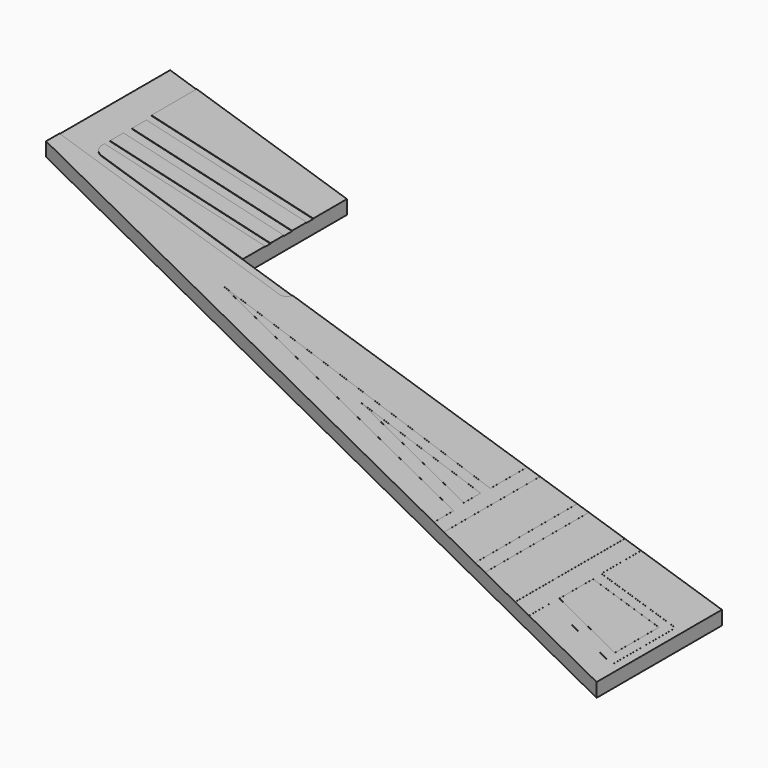
from build123d import *

# Parameters (mm, degrees)
PAD004_DEPTH    = 0.3
POCKET012_DEPTH = 0.01
POCKET013_DEPTH = 0.01


with BuildPart() as part:
    # Sketch014 (on Face1 of Binder004) → Pad004 (new body)
    with BuildSketch(Plane.XY.offset(10.4)):
        Polygon((-19.4323216564, 66.2270001367), (-19.4323216564, 62.889181066), (0.0923997574, 53.2967653506), (0.0923997574, 56.6681716802), (-14.1681248714, 61.6047050946), (-14.1681248714, 64.4047050946), align=None)
    extrude(amount=PAD004_DEPTH)

    # Sketch015 (on Face8 of Pad004) → Pocket012 (cut)
    with BuildSketch(Plane.XY.offset(10.7)):
        Polygon((-5.32199, 58.5424586824), (-5.32199, 55.9568328772), (-5.679085, 56.1322721891), (-5.679085, 56.662136), (-13.809804, 60.630539), (-5.70539, 57.684792), (-5.70539, 58.6751793894), align=None)
        with BuildLine():
            ThreePointArc((-5.7045356509, 57.6847918915), (-5.7048998518, 57.6840920792), (-5.7056819786, 57.6839888464))
            Line((-13.794928, 60.624184), (-5.7056819786, 57.6839888464))
            Line((-5.6787103299, 56.6629035278), (-13.794928, 60.624184))
            ThreePointArc((-5.6787103299, 56.6629035278), (-5.6783605329, 56.6625884398), (-5.6782307979, 56.6621358835))
            Line((-5.6782307759, 56.1328043107), (-5.6782307979, 56.6621358835))
            Line((-5.3228443024, 55.9582044294), (-5.6782307759, 56.1328043107))
            Line((-5.3228443024, 58.5418503733), (-5.3228443024, 55.9582044294))
            Line((-5.3228443024, 58.5418503733), (-5.704535674, 58.6739796165))
            Line((-5.7045356509, 57.6847918915), (-5.704535674, 58.6739796165))
        make_face(mode=Mode.SUBTRACT)
        Polygon((-2.2970993786, 56.1862906865), (-2.2970993786, 55.2818480058), (-0.333954854, 54.3173631361), (-0.333954854, 55.5067134062), align=None)
        Polygon((-0.3348091564, 55.5061050972), (-2.2962450762, 56.1850909136), (-2.2962450762, 55.2823801275), (-0.3348091564, 54.3187346883), align=None, mode=Mode.SUBTRACT)
        with BuildLine():
            Line((-4.2160763024, 55.4130822888), (-4.2160763024, 58.1593313181))
            ThreePointArc((-4.2160763024, 58.1593313181), (-4.215717524, 58.1600272266), (-4.2149425386, 58.1601386186))
            Line((-4.2149425386, 58.1601386186), (-3.8666805386, 58.0395815532))
            ThreePointArc((-3.8666805386, 58.0395815532), (-3.8662640915, 58.0392697768), (-3.8661056976, 58.0387742527))
            Line((-3.8661056976, 58.0387742527), (-3.8661056976, 55.2419825937))
            ThreePointArc((-3.8661056976, 55.2419825937), (-3.8665083304, 55.2412574542), (-3.8673367072, 55.2412158314))
            Line((-3.8673367072, 55.2412158314), (-4.2155987072, 55.4123155266))
            ThreePointArc((-4.2155987072, 55.4123155266), (-4.2159471395, 55.4126306192), (-4.2160763024, 55.4130822888))
        make_face()
        Polygon((-4.215222, 58.1593313181), (-3.86696, 58.0387742527), (-3.86696, 55.2419825937), (-4.215222, 55.4130822888), align=None, mode=Mode.SUBTRACT)
        with BuildLine():
            Line((-2.3108072707, 56.4275985411), (-0.1046298954, 55.663891131))
            Line((-0.1046298954, 55.663891131), (-0.1046298954, 53.988499))
            ThreePointArc((-0.1029212905, 53.988499), (-0.103775593, 53.9876446976), (-0.1046298954, 53.988499))
            Line((-0.1029212905, 55.66449944), (-0.1029212905, 53.988499))
            ThreePointArc((-0.1034961316, 55.6653067405), (-0.1030796845, 55.664994964), (-0.1029212905, 55.66449944))
            Line((-2.3096735069, 56.4290141506), (-0.1034961316, 55.6653067405))
            Line((-2.3096735069, 57.4999876571), (-2.3096735069, 56.4290141506))
            ThreePointArc((-2.310248348, 57.5007949576), (-2.3098319009, 57.5004831812), (-2.3096735069, 57.4999876571))
            Line((-2.7982585386, 57.6697283366), (-2.310248348, 57.5007949576))
            ThreePointArc((-2.7993923024, 57.6689210362), (-2.799033524, 57.6696169446), (-2.7982585386, 57.6697283366))
            Line((-2.7993923024, 54.7170712382), (-2.7993923024, 57.6689210362))
            ThreePointArc((-2.7989147072, 54.7163044759), (-2.7992631395, 54.7166195686), (-2.7993923024, 54.7170712382))
            Line((-2.3048370768, 54.4735661584), (-2.7989147072, 54.7163044759))
            ThreePointArc((-2.3036060672, 54.4743329206), (-2.3040087001, 54.4736077812), (-2.3048370768, 54.4735661584))
            Line((-2.3036060672, 55.0388730164), (-2.3036060672, 54.4743329206))
            Line((-0.1198963375, 53.9660253641), (-2.3036060672, 55.0388730164))
            ThreePointArc((-0.1191429232, 53.9675588887), (-0.1187528681, 53.9664154192), (-0.1198963375, 53.9660253641))
            Line((-0.1191429232, 53.9675588887), (-2.3040836625, 55.0410113309))
            ThreePointArc((-2.3053146721, 55.0402445686), (-2.3049120393, 55.0409697081), (-2.3040836625, 55.0410113309))
            Line((-2.3053146721, 55.0402445686), (-2.3053146721, 54.4757044729))
            Line((-2.3053146721, 54.4757044729), (-2.7976836976, 54.7176033598))
            Line((-2.7976836976, 54.7176033598), (-2.7976836976, 57.6677212633))
            Line((-2.7976836976, 57.6677212633), (-2.3113821118, 57.4993793481))
            Line((-2.3113821118, 57.4993793481), (-2.3113821118, 56.4284058416))
            ThreePointArc((-2.3108072707, 56.4275985411), (-2.3112237178, 56.4279103175), (-2.3113821118, 56.4284058416))
        make_face()
        with BuildLine():
            Line((-9.3319051629, 58.7575064225), (-5.7263271629, 57.4469711295))
            ThreePointArc((-5.7263271629, 57.4469711295), (-5.7259193037, 57.4466583808), (-5.7257646976, 57.4461682199))
            Line((-5.7257646976, 57.4461682199), (-5.7257646976, 56.99691))
            ThreePointArc((-5.7257646976, 56.99691), (-5.726166389, 56.9961854478), (-5.7269937141, 56.9961422617))
            Line((-5.7269937141, 56.9961422617), (-9.3325717141, 58.7559357747))
            ThreePointArc((-9.3325717141, 58.7559357747), (-9.3329834164, 58.7570372522), (-9.3319051629, 58.7575064225))
        make_face()
        Polygon((-5.726619, 57.4461682199), (-5.726619, 56.99691), (-9.332197, 58.756703513), align=None, mode=Mode.SUBTRACT)
    extrude(amount=-POCKET012_DEPTH, mode=Mode.SUBTRACT)

    # Sketch016 (on Face4 of Pocket012) → Pocket013 (cut)
    with BuildSketch(Plane.XY.offset(10.7)):
        with BuildLine():
            Line((-19.4323216564, 63.2499658189), (-12.8720600429, 60.9790149594))
            ThreePointArc((-12.8720600429, 60.9790149594), (-12.7790236517, 60.9809560026), (-12.7096240402, 61.042949806))
            Line((-12.7096240402, 61.042949806), (-12.6841440979, 61.0909988415))
            Line((-12.6841440979, 61.0909988415), (-18.3657134505, 63.0577747972))
            ThreePointArc((-18.6118935069, 63.4329028915), (-18.5526656913, 63.2034288852), (-18.3657134505, 63.0577747972))
            Line((-18.6118935069, 63.4329028915), (-14.1681248714, 62.2040371833))
            Line((-14.1681248714, 62.2040371833), (-14.1681248714, 62.3470925882))
            Line((-14.1681248714, 62.3470925882), (-18.6042335567, 63.5738400381))
            Line((-18.6042335567, 63.5738400381), (-18.6042335567, 63.9373279196))
            Line((-18.6042335567, 63.9373279196), (-14.1681248714, 62.7105804697))
            Line((-14.1681248714, 62.7105804697), (-14.1681248714, 62.9288591633))
            Line((-14.1681248714, 62.9288591633), (-18.5969110965, 64.1535816832))
            Line((-18.5969110965, 64.1535816832), (-18.5969110965, 64.5465445194))
            Line((-18.5969110965, 64.5465445194), (-14.1681248714, 63.3218219995))
            Line((-14.1681248714, 63.3218219995), (-14.1681248714, 63.497559))
            Line((-14.1681248714, 63.497559), (-18.6405480925, 64.7343487566))
            Line((-18.6405480925, 64.7343487566), (-18.6405480925, 65.9529136808))
            Line((-18.6405480925, 65.9529136808), (-19.432322, 66.227))
            Line((-19.432322, 66.227), (-19.4323216564, 63.2499658189))
        make_face()
    extrude(amount=-POCKET013_DEPTH, mode=Mode.SUBTRACT)


solid = part.part
